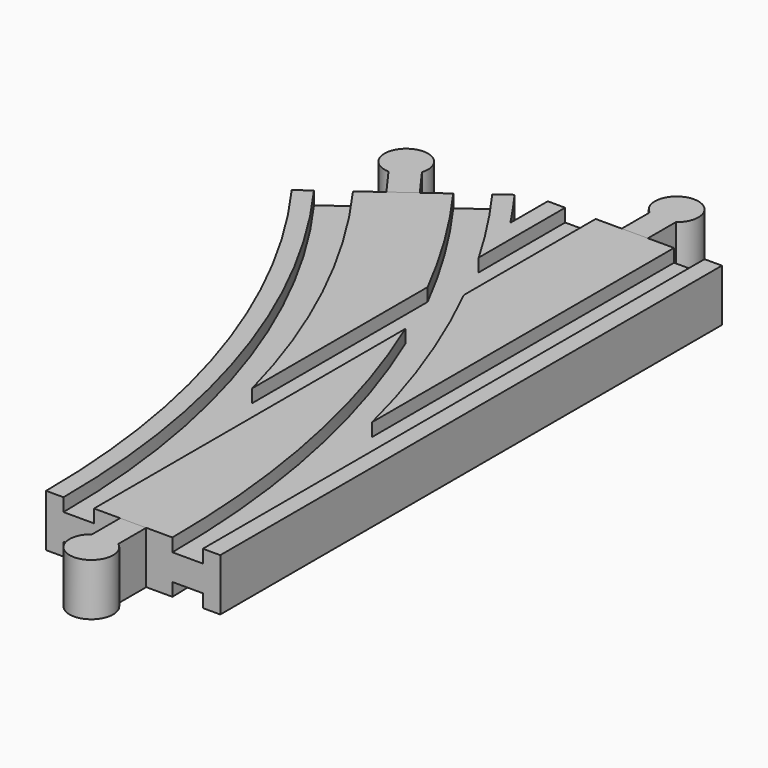
from build123d import *

# Parameters (mm, degrees)
SKETCH004_W  = 7
SKETCH004_H  = 3
SKETCH005_W  = 7
SKETCH005_H  = 3
SKETCH009_W  = 7
SKETCH009_H  = 3
SKETCH010_W  = 7
SKETCH010_H  = 3
PAD_DEPTH    = 6
PAD001_DEPTH = 6
PAD002_DEPTH = 6


with BuildPart() as body:
    # AdditivePipe: sweep along a path in Sketch002
    with BuildLine(Plane.XY) as additivepipe_path:
        ThreePointArc((0, 0), (-10.865453, 68.601773), (-42.398227, 130.488326))
    # Sketch → AdditivePipe (sweep)
    with BuildSketch(Plane.XZ):
        Polygon((-20, 6), (-20, -6), (-16, -6), (-16, -3), (-9, -3), (-9, -6), (9, -6), (9, -3), (16, -3), (16, -6), (20, -6), (20, 6), (16, 6), (16, 3), (9, 3), (9, 6), (-9, 6), (-9, 3), (-16, 3), (-16, 6), align=None)
    sweep(path=additivepipe_path.line)

    # AdditivePipe001: sweep along a path in Sketch001
    with BuildLine(Plane.XY) as additivepipe001_path:
        Line((0, 0), (0, 144))
    # Sketch → AdditivePipe001 (sweep)
    with BuildSketch(Plane.XZ):
        Polygon((-20, 6), (-20, -6), (-16, -6), (-16, -3), (-9, -3), (-9, -6), (9, -6), (9, -3), (16, -3), (16, -6), (20, -6), (20, 6), (16, 6), (16, 3), (9, 3), (9, 6), (-9, 6), (-9, 3), (-16, 3), (-16, 6), align=None)
    sweep(path=additivepipe001_path.line)

    # SubtractivePipe: sweep along a path in Sketch001
    with BuildLine(Plane.XY) as subtractivepipe_path:
        Line((0, 0), (0, 144))
    # Sketch004 → SubtractivePipe (sweep, cut)
    with BuildSketch(Plane.XZ):
        with Locations((-12.5, 4.5)):
            Rectangle(SKETCH004_W, SKETCH004_H)
    sweep(path=subtractivepipe_path.line, mode=Mode.SUBTRACT)

    # SubtractivePipe001: sweep along a path in Sketch002
    with BuildLine(Plane.XY) as subtractivepipe001_path:
        ThreePointArc((0, 0), (-10.865453, 68.601773), (-42.398227, 130.488326))
    # Sketch004 → SubtractivePipe001 (sweep, cut)
    with BuildSketch(Plane.XZ):
        with Locations((-12.5, 4.5)):
            Rectangle(SKETCH004_W, SKETCH004_H)
    sweep(path=subtractivepipe001_path.line, mode=Mode.SUBTRACT)

    # SubtractivePipe002: sweep along a path in Sketch002
    with BuildLine(Plane.XY) as subtractivepipe002_path:
        ThreePointArc((0, 0), (-10.865453, 68.601773), (-42.398227, 130.488326))
    # Sketch005 (on Face1 of SubtractivePipe001) → SubtractivePipe002 (sweep, cut)
    with BuildSketch(Plane.XZ):
        with Locations((12.5, 4.5)):
            Rectangle(SKETCH005_W, SKETCH005_H)
    sweep(path=subtractivepipe002_path.line, mode=Mode.SUBTRACT)

    # SubtractivePipe003: sweep along a path in Sketch001
    with BuildLine(Plane.XY) as subtractivepipe003_path:
        Line((0, 0), (0, 144))
    # Sketch005 (on Face1 of SubtractivePipe001) → SubtractivePipe003 (sweep, cut)
    with BuildSketch(Plane.XZ):
        with Locations((12.5, 4.5)):
            Rectangle(SKETCH005_W, SKETCH005_H)
    subtractivepipe003 = sweep(path=subtractivepipe003_path.line, mode=Mode.SUBTRACT)

    # Mirrored: SubtractivePipe003 across XY
    add(subtractivepipe003.mirror(Plane.XY), mode=Mode.SUBTRACT)

    # SubtractivePipe004: sweep along a path in Sketch002
    with BuildLine(Plane.XY) as subtractivepipe004_path:
        ThreePointArc((0, 0), (-10.865453, 68.601773), (-42.398227, 130.488326))
    # Sketch009 → SubtractivePipe004 (sweep, cut)
    with BuildSketch(Plane.XZ):
        with Locations((-12.5, -4.5)):
            Rectangle(SKETCH009_W, SKETCH009_H)
    sweep(path=subtractivepipe004_path.line, mode=Mode.SUBTRACT)

    # SubtractivePipe005: sweep along a path in Sketch001
    with BuildLine(Plane.XY) as subtractivepipe005_path:
        Line((0, 0), (0, 144))
    # Sketch009 → SubtractivePipe005 (sweep, cut)
    with BuildSketch(Plane.XZ):
        with Locations((-12.5, -4.5)):
            Rectangle(SKETCH009_W, SKETCH009_H)
    sweep(path=subtractivepipe005_path.line, mode=Mode.SUBTRACT)

    # SubtractivePipe006: sweep along a path in Sketch002
    with BuildLine(Plane.XY) as subtractivepipe006_path:
        ThreePointArc((0, 0), (-10.865453, 68.601773), (-42.398227, 130.488326))
    # Sketch010 (on Face1 of SubtractivePipe005) → SubtractivePipe006 (sweep, cut)
    with BuildSketch(Plane.XZ):
        with Locations((12.5, -4.5)):
            Rectangle(SKETCH010_W, SKETCH010_H)
    sweep(path=subtractivepipe006_path.line, mode=Mode.SUBTRACT)


with BuildPart() as body001:
    # Sketch008 → Pad (new body, symmetric)
    with BuildSketch(Plane.XY):
        with BuildLine():
            Line((-3, 0), (3, 0))
            Line((3, 0), (3, -8))
            ThreePointArc((-3, -8), (0, -17), (3, -8))
            Line((-3, 0), (-3, -8))
        make_face()
    extrude(amount=PAD_DEPTH, both=True)


with BuildPart() as body002:
    # Sketch011 → Pad001 (new body, symmetric)
    with BuildSketch(Plane.XY):
        with BuildLine():
            Line((-3, 144), (3, 144))
            Line((3, 144), (3, 152))
            ThreePointArc((3, 152), (0, 161), (-3, 152))
            Line((-3, 144), (-3, 152))
        make_face()
    extrude(amount=PAD001_DEPTH, both=True)


with BuildPart() as body003:
    # Sketch012 → Pad002 (new body, symmetric)
    with BuildSketch(Plane.XY):
        with BuildLine():
            Line((-44.825278, 128.72497), (-39.971176, 132.251682))
            Line((-39.971176, 132.251682), (-44.673458, 138.723818))
            ThreePointArc((-44.673458, 138.723818), (-52.390577, 144.241615), (-49.52756, 135.197106))
            Line((-44.825278, 128.72497), (-49.52756, 135.197106))
        make_face()
    extrude(amount=PAD002_DEPTH, both=True)


solid = Compound([body.part, body001.part, body002.part, body003.part])
